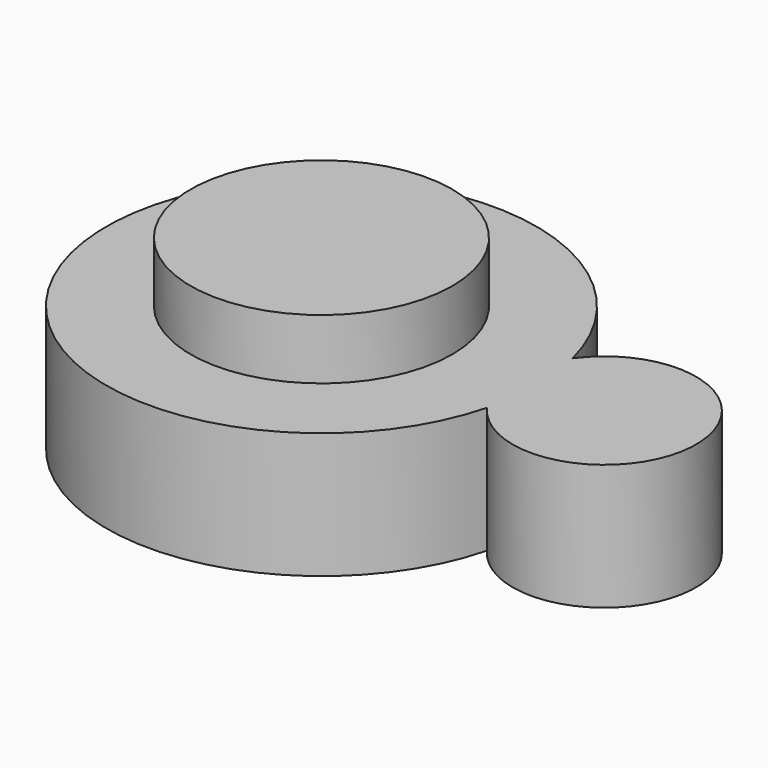
from build123d import *

# Parameters (mm, degrees)
F1_DEPTH = 53.086
F2_R     = 55.232251
F3_DEPTH = 25.4


with BuildPart() as f1:
    # F0 (on Top) → F1 (new body)
    with BuildSketch(Plane.XY):
        with BuildLine():
            ThreePointArc((0, 45.17208), (-178.732396, 22.58604), (0, 0))
            ThreePointArc((0, 0), (70.178513, 22.58604), (0, 45.17208))
        make_face()
    extrude(amount=F1_DEPTH)

    # F2 (on face) → F3 (join)
    with BuildSketch(Plane.XY.offset(53.086)):
        with Locations((-87.939123, 22.58604)):
            Circle(F2_R)
    extrude(amount=F3_DEPTH)


solid = f1.part
